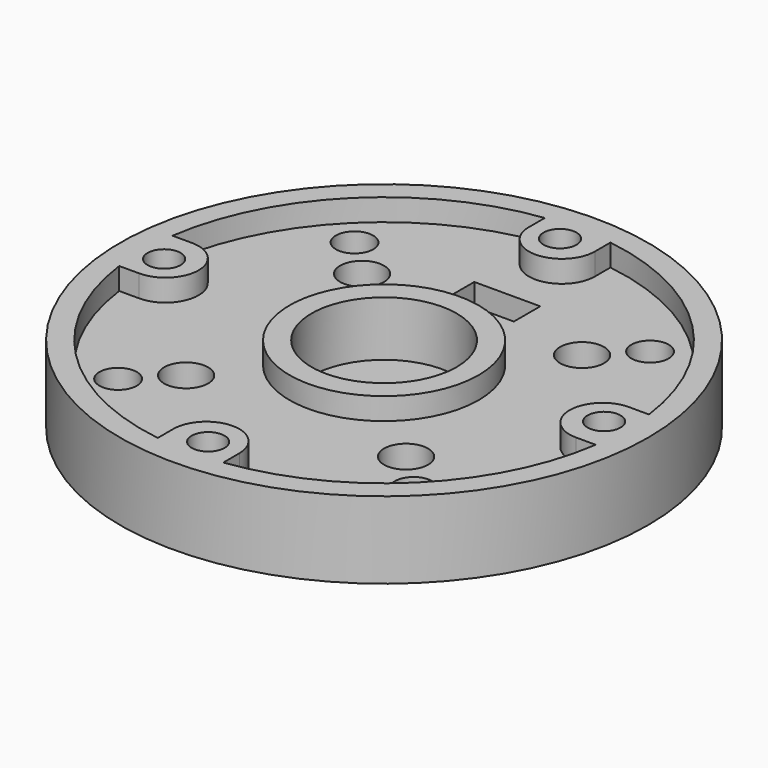
from build123d import *

# Parameters (mm, degrees)
REVOLVE_ONTO_SKETCH002_ROLL_ANGLE = 90
ARRAY_COUNT                       = 4
PAD_DEPTH                         = 2
POLARPATTERN_COUNT                = 4
SKETCH005_R                       = 1.7
POCKET_DEPTH                      = 141.485431
POLARPATTERN001_COUNT             = 4
SKETCH006_R                       = 1.7
POCKET001_DEPTH                   = 5.001
SKETCH007_R                       = 2
POCKET002_DEPTH                   = 4
SKETCH008_R                       = 2.75
POCKET003_DEPTH                   = 3
SKETCH009_W                       = 6
SKETCH009_H                       = 3
POCKET004_DEPTH                   = 5.001


with BuildPart() as array:
    # Sketch002 as drawn → Revolve (revolve)
    with BuildSketch(Plane.XY):
        Polygon((17.25, -1), (17.25, 4), (18.5, 4), (18.5, 8), (20, 8), (20, -1), align=None)
    revolve(axis=Axis((20, 8, 0), (0, -1, 0)))


with BuildPart() as array_1:
    # Revolve onto Sketch002 roll: moved
    add(array.part.rotate(Axis((0, 0, 0), (1, 0, 0)), REVOLVE_ONTO_SKETCH002_ROLL_ANGLE))


with BuildPart() as array_2:
    # Revolve onto Sketch002 placement: moved
    add(array_1.part)

    # Array: Array ×4 about axis
    array_axis = Axis((0, 0, 0), (0, 0, 1))


with BuildPart() as array_3:
    add(array_2.part)
    for i in range(1, ARRAY_COUNT):
        add(array_2.part.rotate(array_axis, i * 360 / ARRAY_COUNT))


with BuildPart() as pocket004:
    # Sketch → Revolution (revolve)
    with BuildSketch(Plane.XZ):
        Polygon((0, 0), (24, 0), (24, 7), (22, 7), (22, 5), (8.6, 5), (8.6, 7), (6.6, 7), (6.6, 2), (0, 2), align=None)
    revolve(axis=Axis((0, 0, 0), (0, 0, 1)))

    # Sketch004 → Pad (new body)
    with BuildSketch(Plane(origin=(0, 0, 7), x_dir=(-1, 0, 0), z_dir=(0, 0, 1))):
        with BuildLine():
            Line((-22, 3.164727), (-20, 3.164727))
            ThreePointArc((-20, -2.835273), (-17, 0.164727), (-20, 3.164727))
            Line((-20, -2.835273), (-22, -2.835273))
            Line((-22, -2.835273), (-22, 3.164727))
        make_face()
    pad = extrude(amount=-PAD_DEPTH)

    # PolarPattern: Pad ×4 about axis
    polarpattern_axis = Axis((0, 0, 7), (0, 0, 1))
    for i in range(1, POLARPATTERN_COUNT):
        add(pad.rotate(polarpattern_axis, i * 360 / POLARPATTERN_COUNT))

    # Cut: cut Array
    add(array_3.part, mode=Mode.SUBTRACT)

    # Sketch005 → Pocket (cut, through all)
    with BuildSketch(Plane.XY.offset(5)):
        with Locations((-13.435029, 13.435029)):
            Circle(SKETCH005_R)
    pocket = extrude(amount=-POCKET_DEPTH, mode=Mode.SUBTRACT)

    # PolarPattern001: Pocket ×4 about axis
    polarpattern001_axis = Axis((0, 0, 5), (0, 0, 1))
    for i in range(1, POLARPATTERN001_COUNT):
        add(pocket.rotate(polarpattern001_axis, i * 360 / POLARPATTERN001_COUNT), mode=Mode.SUBTRACT)

    # Sketch006 → Pocket001 (cut, through all)
    with BuildSketch(Plane.XY.offset(5)):
        with Locations((10, 10)):
            Circle(SKETCH006_R)
        with Locations((-10, 10)):
            Circle(SKETCH006_R)
        with Locations((-10, -10)):
            Circle(SKETCH006_R)
        with Locations((10, -10)):
            Circle(SKETCH006_R)
    extrude(amount=-POCKET001_DEPTH, mode=Mode.SUBTRACT)

    # Sketch007 → Pocket002 (cut)
    with BuildSketch(Plane.XY.offset(5)):
        with Locations((-10, -10)):
            Circle(SKETCH007_R)
        with Locations((10, -10)):
            Circle(SKETCH007_R)
        with Locations((10, 10)):
            Circle(SKETCH007_R)
        with Locations((-10, 10)):
            Circle(SKETCH007_R)
    extrude(amount=-POCKET002_DEPTH, mode=Mode.SUBTRACT)

    # Sketch008 → Pocket003 (cut)
    with BuildSketch(Plane(origin=(0, 0, 0), x_dir=(1, 0, 0), z_dir=(0, 0, -1))):
        with Locations((-13.435029, 13.435029)):
            Circle(SKETCH008_R)
        with Locations((-13.435029, -13.435029)):
            Circle(SKETCH008_R)
        with Locations((13.435029, -13.435029)):
            Circle(SKETCH008_R)
        with Locations((13.435029, 13.435029)):
            Circle(SKETCH008_R)
    extrude(amount=-POCKET003_DEPTH, mode=Mode.SUBTRACT)

    # Sketch009 → Pocket004 (cut, through all)
    with BuildSketch(Plane.XY.offset(5)):
        with Locations((0, 12.5)):
            Rectangle(SKETCH009_W, SKETCH009_H)
    extrude(amount=-POCKET004_DEPTH, mode=Mode.SUBTRACT)


solid = pocket004.part
